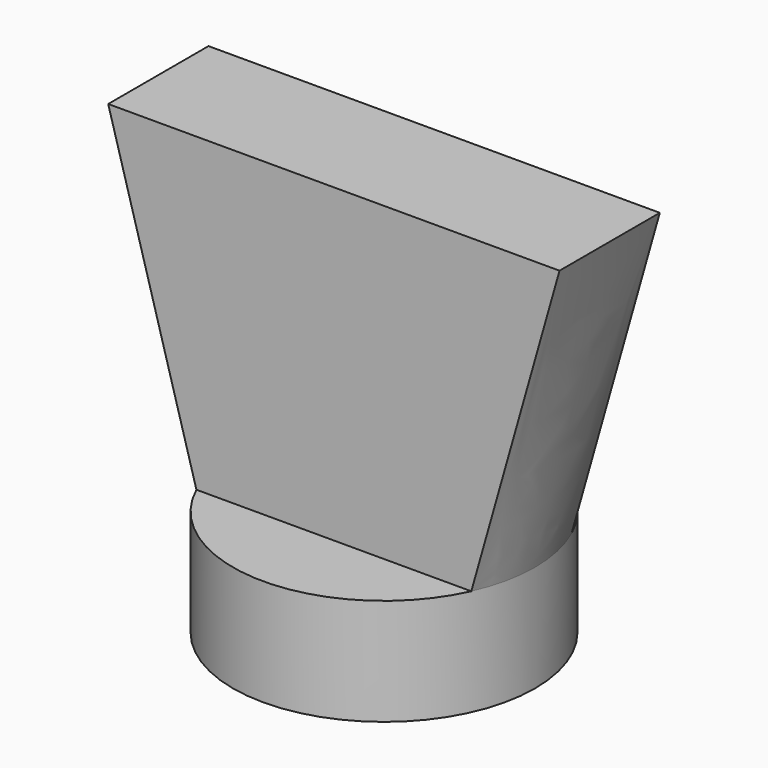
from build123d import *

# Parameters (mm, degrees)
SKETCH_R     = 12.05
PAD_DEPTH    = 8.5
SKETCH003_W  = 36
SKETCH003_H  = 10
POCKET_DEPTH = 5.5


with BuildPart() as part:
    # Sketch → Pad (new body)
    with BuildSketch(Plane.XY):
        Circle(SKETCH_R)
    extrude(amount=PAD_DEPTH)

    # Sketch002 (on Face3 of Pad) → AdditiveLoft section 0
    with BuildSketch(Plane.XY.offset(8.5)):
        with BuildLine():
            ThreePointArc((-10.96369, 5), (-12.05, 0), (-10.96369, -5))
            Line((10.96369, -5), (-10.96369, -5))
            ThreePointArc((10.96369, -5), (12.05, 0), (10.96369, 5))
            Line((-10.96369, 5), (10.96369, 5))
        make_face()
    # Sketch003 → AdditiveLoft section 1
    with BuildSketch(Plane.XY.offset(33.3)):
        Rectangle(SKETCH003_W, SKETCH003_H)
    loft()

    # Sketch004 (on Face2 of AdditiveLoft) → Pocket (cut)
    with BuildSketch(Plane(origin=(0, 0, 0), x_dir=(1, 0, 0), z_dir=(0, 0, -1))):
        Polygon((-3.781644, 6.55), (-7.563289, 0), (-3.781644, -6.55), (3.781644, -6.55), (7.563289, 0), (3.781644, 6.55), align=None)
    extrude(amount=-POCKET_DEPTH, mode=Mode.SUBTRACT)


solid = part.part
